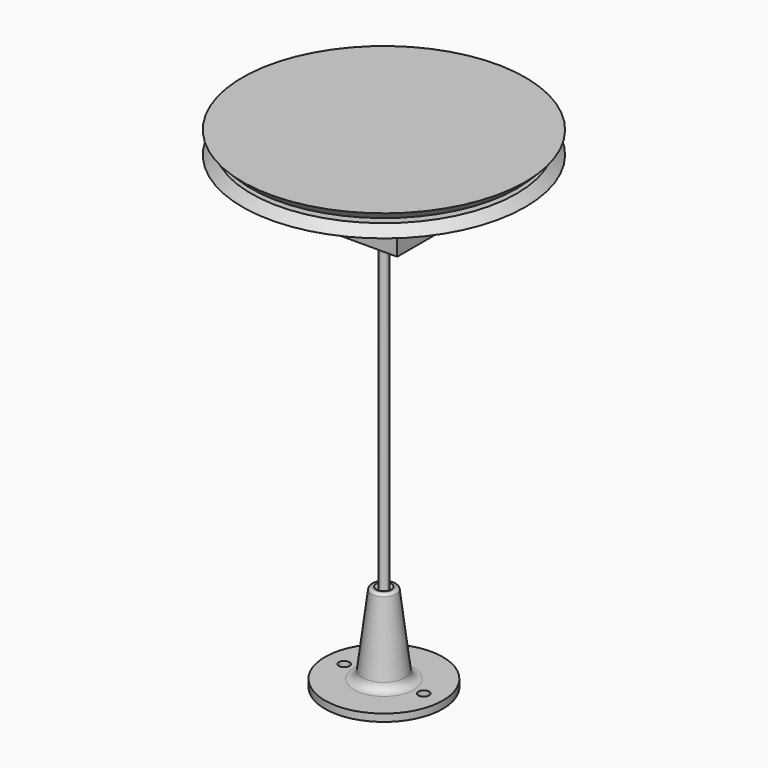
from build123d import *

# Parameters (mm, degrees)
F0_R      = 45
F1_DEPTH  = 3
F1_TAPER  = -45
F2_R      = 2
F3_DEPTH  = 1.5
F4_R      = 45
F5_DEPTH  = 3
F5_TAPER  = -45
F6_W      = 45
F6_H      = 45
F7_DEPTH  = 17
F8_W      = 39
F8_H      = 39
F10_DEPTH = 12
F11_W     = 10
F11_H     = 5
F11_R     = 1.6
F12_DEPTH = 5
F13_R     = 1.5
F14_DEPTH = 150
F17_R     = 1.8
F18_DEPTH = 2.501
F19_R     = 3
F20_SIZE  = 1
F21_R     = 1


with BuildPart() as f1:
    # F0 (on Top) → F1 (new body)
    with BuildSketch(Plane.XY):
        Circle(F0_R)
    extrude(amount=F1_DEPTH, taper=F1_TAPER)

    # F2 (on face) → F3 (join)
    with BuildSketch(Plane(origin=(0, 0, 0), x_dir=(1, 0, 0), z_dir=(0, 0, -1))):
        with Locations((40, 0)):
            Circle(F2_R)
        with Locations((20, 34.6410161514)):
            Circle(F2_R)
        with Locations((-20, 34.6410161514)):
            Circle(F2_R)
        with Locations((-40, 0)):
            Circle(F2_R)
        with Locations((-20, -34.6410161514)):
            Circle(F2_R)
        with Locations((20, -34.6410161514)):
            Circle(F2_R)
    extrude(amount=F3_DEPTH)


with BuildPart() as f5:
    # F4 (on face) → F5 (new body)
    with BuildSketch(Plane(origin=(0, 0, -1.5), x_dir=(1, 0, 0), z_dir=(0, 0, -1))):
        Circle(F4_R)
    extrude(amount=F5_DEPTH, taper=F5_TAPER)

    # F6 (on face) → F7 (join)
    with BuildSketch(Plane.XY.offset(-1.5)):
        Rectangle(F6_W, F6_H)
    extrude(amount=-F7_DEPTH)

    # F8 (on face) → F10 (cut, through all)
    with BuildSketch(Plane.XY.offset(-1.5)):
        Rectangle(F8_W, F8_H)
    extrude(amount=-F10_DEPTH, mode=Mode.SUBTRACT)

    # F11 (on face) → F12 (cut, through all)
    with BuildSketch(Plane(origin=(0, 0, -18.5), x_dir=(1, 0, 0), z_dir=(0, 0, -1))):
        with Locations((0, 17)):
            Rectangle(F11_W, F11_H)
        Circle(F11_R)
    extrude(amount=-F12_DEPTH, mode=Mode.SUBTRACT)


with BuildPart() as f14:
    # F13 (on offset) → F14 (new body)
    with BuildSketch(Plane(origin=(0, 0, -13.5), x_dir=(1, 0, 0), z_dir=(0, 0, -1))):
        Circle(F13_R)
    extrude(amount=F14_DEPTH)


with BuildPart() as f16:
    # F15 (on Right) → F16 (revolve)
    with BuildSketch(Plane.YZ):
        Polygon((-20, -161), (-20, -163.5), (-1.6, -163.5), (-1.6, -133.5), (-4.1, -133.5), (-7.5, -161), align=None)
    revolve(axis=Axis((0, 0, -84.7821459174), (0, 0, -1)))

    # F17 (on face) → F18 (cut, through all)
    with BuildSketch(Plane.XY.offset(-161)):
        with Locations((13.5, 0)):
            Circle(F17_R)
        with Locations((-13.5, 0)):
            Circle(F17_R)
    extrude(amount=-F18_DEPTH, mode=Mode.SUBTRACT)

    # F19
    f19_edges = [f16.edges().sort_by_distance(p)[0] for p in [
        (0, 7.5, -161),
    ]]
    fillet(f19_edges, radius=F19_R)

    # F20
    f20_edges = [f16.edges().sort_by_distance(p)[0] for p in [
        (0, 1.6, -133.5),
    ]]
    chamfer(f20_edges, length=F20_SIZE)

    # F21
    f21_edges = [f16.edges().sort_by_distance(p)[0] for p in [
        (0, 4.1, -133.5),
    ]]
    fillet(f21_edges, radius=F21_R)


solid = Compound([f1.part, f5.part, f14.part, f16.part])
